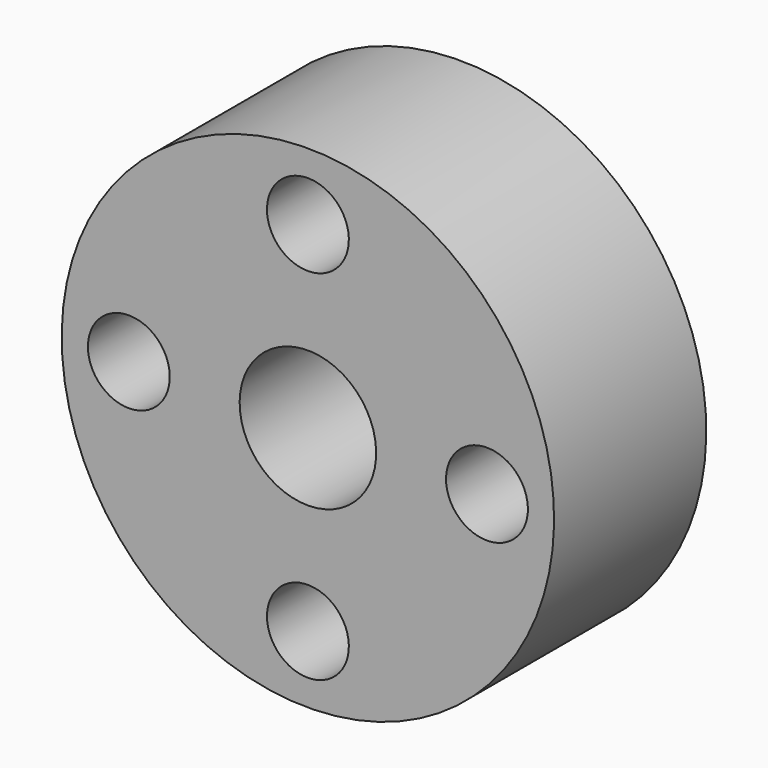
from build123d import *

# Parameters (mm, degrees)
F0_R     = 11
F0_R_2   = 1.8288
F0_R_3   = 3.05
F1_DEPTH = 8.5
F2_ANGLE = 45


with BuildPart() as f1:
    # F0 (on Front) → F1 (new body)
    with BuildSketch(Plane.XZ):
        Circle(F0_R)
        with Locations((-5.656854, -5.656854)):
            Circle(F0_R_2, mode=Mode.SUBTRACT)
        with Locations((5.656854, -5.656854)):
            Circle(F0_R_2, mode=Mode.SUBTRACT)
        with Locations((-5.656854, 5.656854)):
            Circle(F0_R_2, mode=Mode.SUBTRACT)
        Circle(F0_R_3, mode=Mode.SUBTRACT)
        with Locations((5.656854, 5.656854)):
            Circle(F0_R_2, mode=Mode.SUBTRACT)
    extrude(amount=F1_DEPTH)


with BuildPart() as f1_1:
    # F2: moved
    add(f1.part.rotate(Axis((0, 0, 0), (0, -1, 0)), F2_ANGLE))


solid = f1_1.part
